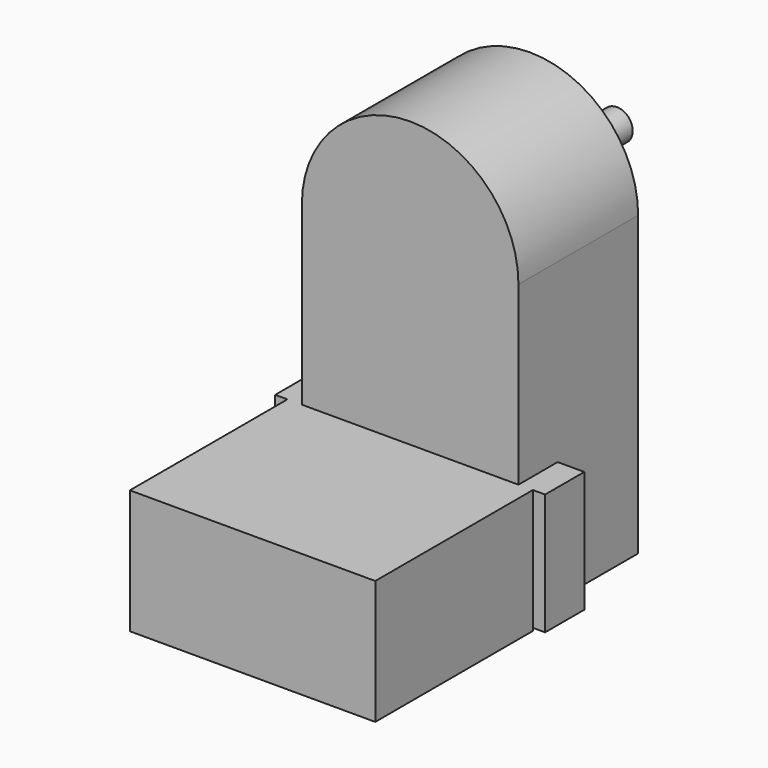
from build123d import *

# Parameters (mm, degrees)
F0_W     = 19.9
F0_H     = 27.35
F1_DEPTH = 13.75
F2_W     = 19.9
F2_H     = 11.15
F3_DEPTH = 18.1
F4_W     = 24.8
F4_H     = 11.15
F5_DEPTH = 4.5
F7_DEPTH = 10


with BuildPart() as f1:
    # F0 (on Front) → F1 (new body)
    with BuildSketch(Plane.XZ):
        with BuildLine():
            ThreePointArc((9.95, 0), (0, 9.95), (-9.95, 0))
            Line((-9.95, 0), (9.95, 0))
        make_face()
        with Locations((0, -13.675)):
            Rectangle(F0_W, F0_H)
    extrude(amount=F1_DEPTH)

    # F2 (on face) → F3 (join)
    with BuildSketch(Plane.XZ.offset(13.75)):
        Polygon((-11.275, -16.2), (-11.275, -27.6), (11.275, -27.6), (11.275, -16.2), (9.95, -16.2), (9.95, -27.35), (-9.95, -27.35), (-9.95, -16.2), align=None)
        with Locations((0, -21.775)):
            Rectangle(F2_W, F2_H)
    extrude(amount=F3_DEPTH)

    # F4 (on face) → F5 (join)
    with BuildSketch(Plane.XZ.offset(13.75)):
        with Locations((0, -21.775)):
            Rectangle(F4_W, F4_H)
    extrude(amount=-F5_DEPTH)

    # F6 (on face) → F7 (join)
    with BuildSketch(Plane(origin=(0, 0, 0), x_dir=(-1, 0, 0), z_dir=(0, 1, 0))):
        with BuildLine():
            ThreePointArc((1.095445, -0.95), (1.358473, -0.507003), (1.45, 0))
            ThreePointArc((1.45, 0), (-0.507003, 1.358473), (-1.095445, -0.95))
            Line((-1.095445, -0.95), (1.095445, -0.95))
        make_face()
    extrude(amount=F7_DEPTH)


solid = f1.part
